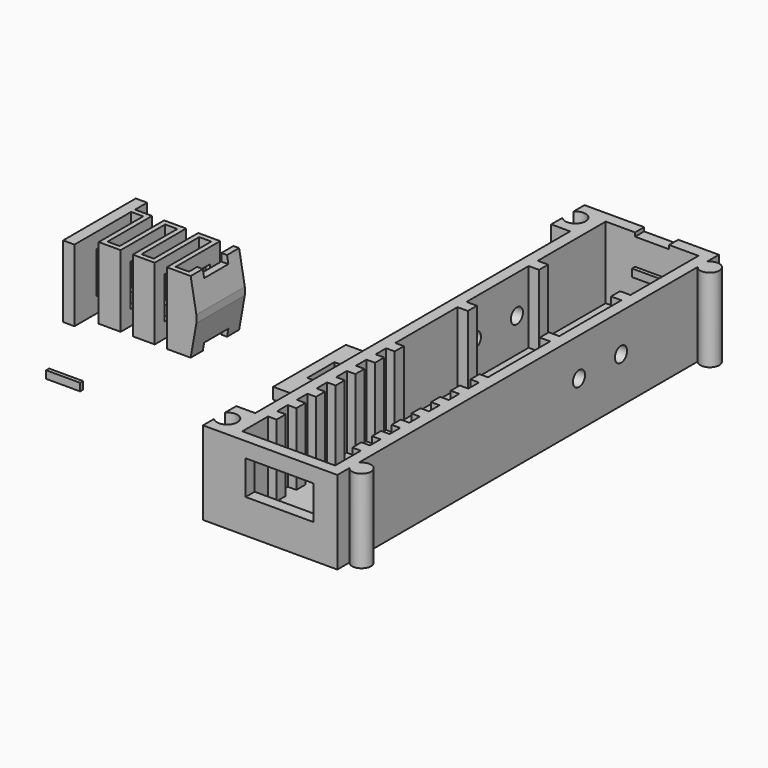
from build123d import *

# Parameters (mm, degrees)
SKETCH014_W     = 9
SKETCH014_H     = 2
PAD002_DEPTH    = 1
PAD001_DEPTH    = 19
SKETCH007_W     = 9.4
SKETCH007_H     = 11
POCKET004_DEPTH = 27
POCKET010_DEPTH = 19
SKETCH016_W     = 8
SKETCH016_H     = 2
POCKET011_DEPTH = 4
POCKET012_DEPTH = 20
SKETCH019_W     = 19
SKETCH019_H     = 24
SKETCH019_W_2   = 2
SKETCH019_H_2   = 9
PAD003_DEPTH    = 3
PAD_DEPTH       = 22
POCKET_DEPTH    = 19
SKETCH003_W     = 9
SKETCH003_H     = 2
POCKET013_DEPTH = 5
SKETCH005_R     = 2
POCKET014_DEPTH = 34
POCKET015_DEPTH = 1
SKETCH013_R     = 1.5
POCKET016_DEPTH = 5
CHAMFER_SIZE    = 1.5
CHAMFER001_SIZE = 1.5
POCKET017_DEPTH = 7
PAD004_DEPTH    = 1


with BuildPart() as battery_holder_fixed_contact_padding:
    # Sketch014 → Pad002 (new body)
    with BuildSketch(Plane(origin=(0, -52, 0), x_dir=(-1, 0, 0), z_dir=(0, 1, 0))):
        with Locations((33, 13)):
            Rectangle(SKETCH014_W, SKETCH014_H)
    extrude(amount=PAD002_DEPTH)


with BuildPart() as spring:
    # Sketch006 → Pad001 (new body)
    with BuildSketch(Plane.XY):
        Polygon((-65, 12), (-62, 12), (-62, 8), (-33, 8), (-33, -8), (-62, -8), (-62, -12), (-65, -12), align=None)
    extrude(amount=PAD001_DEPTH)

    # Sketch007 → Pocket004 (cut)
    with BuildSketch(Plane(origin=(-65, 0, 0), x_dir=(0, -1, 0), z_dir=(-1, 0, 0))):
        with Locations((0, 9.5)):
            Rectangle(SKETCH007_W, SKETCH007_H)
    extrude(amount=-POCKET004_DEPTH, mode=Mode.SUBTRACT)

    # Sketch017 → Pocket010 (cut)
    with BuildSketch(Plane(origin=(0, 8, 0), x_dir=(-1, 0, 0), z_dir=(0, 1, 0))):
        Polygon((31, 21), (31, -2), (34.5, -2), (34.5, 0), (33, 8.5), (33, 10.5), (34.5, 19), (34.5, 21), align=None)
    extrude(amount=-POCKET010_DEPTH, mode=Mode.SUBTRACT)

    # Sketch016 → Pocket011 (cut)
    with BuildSketch(Plane.YZ.offset(-33)):
        with Locations((0, 18)):
            Rectangle(SKETCH016_W, SKETCH016_H)
        with Locations((0, 1)):
            Rectangle(SKETCH016_W, SKETCH016_H)
    extrude(amount=-POCKET011_DEPTH, mode=Mode.SUBTRACT)

    # Sketch018 → Pocket012 (cut)
    with BuildSketch(Plane.XY.offset(19)):
        Polygon((-62, 8), (-57.5, 8), (-57.5, -6.7), (-54.3, -6.7), (-54.3, 8), (-48.5, 8), (-48.5, -6.7), (-45.3, -6.7), (-45.3, 8), (-39.5, 8), (-39.5, -6.7), (-36, -6.7), (-36, 8), (-33, 8), (-33, -8), (-40.8, -8), (-40.8, 6.7), (-44, 6.7), (-44, -8), (-49.8, -8), (-49.8, 6.7), (-53, 6.7), (-53, -8), (-58.8, -8), (-58.8, 6.7), (-62, 6.7), (-62, -10), (-29, -10), (-29, 10), (-62, 10), align=None)
    extrude(amount=-POCKET012_DEPTH, mode=Mode.SUBTRACT)


with BuildPart() as base_contact_plate_for_brass_contact:
    # Sketch019 → Pad003 (new body)
    with BuildSketch(Plane.XY):
        Rectangle(SKETCH019_W, SKETCH019_H)
        with Locations((-5.5, 0)):
            Rectangle(SKETCH019_W_2, SKETCH019_H_2, mode=Mode.SUBTRACT)
        with Locations((5.5, 0)):
            Rectangle(SKETCH019_W_2, SKETCH019_H_2, mode=Mode.SUBTRACT)
    extrude(amount=PAD003_DEPTH)


with BuildPart() as fixed_contact_support_pad:
    # Sketch002 → Pad (new body)
    with BuildSketch(Plane.XY):
        with BuildLine():
            Line((17.75, 63), (33, 63))
            Line((33, 63), (48.25, 63))
            Line((48.25, 63), (48.25, 59))
            ThreePointArc((48.25, 56), (52.75, 57.5), (48.25, 59))
            Line((48.25, 56), (48.25, -56))
            ThreePointArc((48.25, -59), (52.75, -57.5), (48.25, -56))
            Line((48.25, -63), (48.25, -59))
            Line((33, -63), (48.25, -63))
            Line((17.75, -63), (33, -63))
            Line((17.75, -63), (12.75, -63))
            Line((12.75, -59.313836), (12.75, -63))
            ThreePointArc((12.75, -59.313836), (17.45, -57.5), (12.75, -55.686164))
            Line((12.75, -52), (12.75, -55.686164))
            Line((12.75, -52), (17.75, -52))
            Line((17.75, -52), (17.75, 52))
            Line((12.75, 52), (17.75, 52))
            Line((12.75, 55.686164), (12.75, 52))
            ThreePointArc((12.75, 55.686164), (17.45, 57.5), (12.75, 59.313836))
            Line((12.75, 63), (12.75, 59.313836))
            Line((12.75, 63), (17.75, 63))
        make_face()
    extrude(amount=PAD_DEPTH)

    # Sketch001 → Pocket (cut)
    with BuildSketch(Plane.XY.offset(22)):
        Polygon((20.75, 60), (45.25, 60), (45.25, 37.55), (42.5, 37.55), (42.5, 34.55), (45.25, 34.55), (45.25, 14.025), (42.5, 14.025), (42.5, 11.025), (45.25, 11.025), (45.25, -9.5), (43, -9.5), (43, -12.5), (45.25, -12.5), (45.25, -16), (43, -16), (43, -19), (45.25, -19), (45.25, -22.5), (43, -22.5), (43, -25.5), (45.25, -25.5), (45.25, -29), (43, -29), (43, -32), (45.25, -32), (45.25, -35.5), (43, -35.5), (43, -38.5), (45.25, -38.5), (45.25, -42), (43, -42), (43, -45), (45.25, -45), (45.25, -48.5), (43, -48.5), (43, -51.5), (45.25, -51.5), (45.25, -60), (20.75, -60), (20.75, -51.5), (23, -51.5), (23, -48.5), (20.75, -48.5), (20.75, -45), (23, -45), (23, -42), (20.75, -42), (20.75, -38.5), (23, -38.5), (23, -35.5), (20.75, -35.5), (20.75, -32), (23, -32), (23, -29), (20.75, -29), (20.75, -25.5), (23, -25.5), (23, -22.5), (20.75, -22.5), (20.75, -19), (23, -19), (23, -16), (20.75, -16), (20.75, -12.5), (23, -12.5), (23, -9.5), (20.75, -9.5), (20.75, 11.025), (23.5, 11.025), (23.5, 14.025), (20.75, 14.025), (20.75, 34.55), (23.5, 34.55), (23.5, 37.55), (20.75, 37.55), align=None)
    extrude(amount=-POCKET_DEPTH, mode=Mode.SUBTRACT)

    # Sketch003 → Pocket013 (cut)
    with BuildSketch(Plane(origin=(0, 63, 0), x_dir=(-1, 0, 0), z_dir=(0, 1, 0))):
        with Locations((-33, 5)):
            Rectangle(SKETCH003_W, SKETCH003_H)
        with Locations((-33, 22)):
            Rectangle(SKETCH003_W, SKETCH003_H)
    extrude(amount=-POCKET013_DEPTH, mode=Mode.SUBTRACT)

    # Sketch005 → Pocket014 (cut)
    with BuildSketch(Plane.YZ.offset(48.25)):
        with Locations((30.666667, 12)):
            Circle(SKETCH005_R)
        with Locations((16.8, 12)):
            Circle(SKETCH005_R)
    extrude(amount=-POCKET014_DEPTH, mode=Mode.SUBTRACT)

    # Sketch012 → Pocket015 (cut)
    with BuildSketch(Plane.XY.offset(3)):
        Polygon((32, 44.1), (34, 44.1), (34, 40.6), (37.5, 40.6), (37.5, 38.6), (34, 38.6), (34, 35.1), (32, 35.1), (32, 38.6), (28.5, 38.6), (28.5, 40.6), (32, 40.6), align=None)
    extrude(amount=-POCKET015_DEPTH, mode=Mode.SUBTRACT)

    # Sketch013 → Pocket016 (cut)
    with BuildSketch(Plane.XY.offset(3)):
        with Locations((33, 15)):
            Circle(SKETCH013_R)
        with Locations((33, -27)):
            Circle(SKETCH013_R)
    extrude(amount=-POCKET016_DEPTH, mode=Mode.SUBTRACT)

    # Chamfer
    chamfer_edges = [fixed_contact_support_pad.edges().sort_by_distance(p)[0] for p in [
        (31.5, 15, 3),
    ]]
    chamfer(chamfer_edges, length=CHAMFER_SIZE)

    # Chamfer001
    chamfer001_edges = [fixed_contact_support_pad.edges().sort_by_distance(p)[0] for p in [
        (31.5, -27, 3),
    ]]
    chamfer(chamfer001_edges, length=CHAMFER001_SIZE)

    # Sketch021 → Pocket017 (cut)
    with BuildSketch(Plane.XZ.offset(63)):
        Polygon((24, 18), (24, 9), (33, 9), (42, 9), (42, 18), (33, 18), align=None)
    extrude(amount=-POCKET017_DEPTH, mode=Mode.SUBTRACT)

    # Sketch022 → Pad004 (new body)
    with BuildSketch(Plane.XZ.offset(-60)):
        Polygon((28.5, 14), (28.5, 12), (33, 12), (37.5, 12), (37.5, 14), (33, 14), align=None)
    extrude(amount=PAD004_DEPTH)


solid = Compound([battery_holder_fixed_contact_padding.part, spring.part, base_contact_plate_for_brass_contact.part, fixed_contact_support_pad.part])
